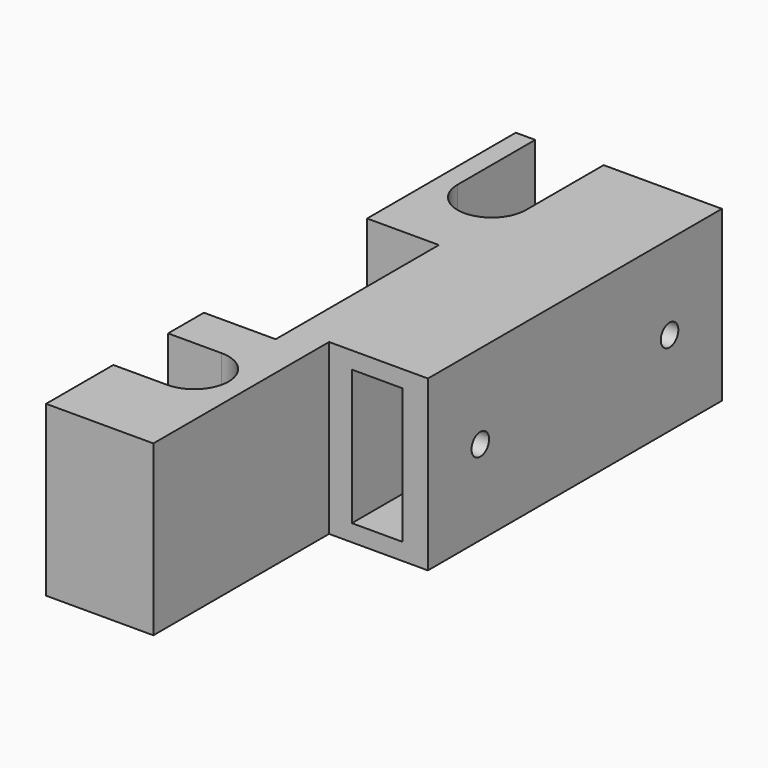
from build123d import *

# Parameters (mm, degrees)
F1_DEPTH = 20
F2_W     = 4
F2_H     = 12
F3_DEPTH = 59
F4_W     = 6
F4_H     = 2
F5_DEPTH = 39
F6_R     = 1.3
F7_DEPTH = 7.3


with BuildPart() as f1:
    # F0 (on Top) → F1 (new body)
    with BuildSketch(Plane.XY):
        with BuildLine():
            ThreePointArc((0, 4.05), (4.05, 0), (0, -4.05))
            Line((0, -4.05), (-6.35, -4.05))
            Line((-6.35, -4.05), (-6.35, -14))
            Line((-6.35, -14), (6.35, -14))
            Line((6.35, -14), (6.35, 12))
            Line((6.35, 12), (18.05, 12))
            Line((18.05, 12), (18.05, 55.5))
            Line((18.05, 55.5), (6.35, 55.5))
            Line((6.35, 55.5), (4.05, 55.5))
            Line((4.05, 55.5), (4.05, 44))
            ThreePointArc((4.05, 44), (0, 39.95), (-4.05, 44))
            Line((-4.05, 44), (-4.05, 55.5))
            Line((-4.05, 55.5), (-6.35, 55.5))
            Line((-6.35, 55.5), (-6.35, 33.5))
            Line((-6.35, 33.5), (2.15, 33.5))
            Line((2.15, 33.5), (2.15, 32.5))
            Line((2.15, 32.5), (2.15, 9.35))
            Line((2.15, 9.35), (-6.35, 9.35))
            Line((-6.35, 9.35), (-6.35, 4.05))
            Line((-6.35, 4.05), (0, 4.05))
        make_face()
    extrude(amount=F1_DEPTH)

    # F2 (on face) → F3 (cut)
    with BuildSketch(Plane(origin=(0, 55.5, 0), x_dir=(-1, 0, 0), z_dir=(0, 1, 0))):
        with Locations((-11.05, 10)):
            Rectangle(F2_W, F2_H)
    extrude(amount=-F3_DEPTH, mode=Mode.SUBTRACT)

    # F4 (on face) → F5 (cut)
    with BuildSketch(Plane.XZ.offset(-12)):
        Polygon((15.05, 16), (9.05, 16), (9.05, 10), (9.05, 4), (15.05, 4), align=None)
        with Locations((12.05, 3)):
            Rectangle(F4_W, F4_H)
        with Locations((12.05, 17)):
            Rectangle(F4_W, F4_H)
    extrude(amount=-F5_DEPTH, mode=Mode.SUBTRACT)

    # F6 (on face) → F7 (cut)
    with BuildSketch(Plane.YZ.offset(18.05)):
        with Locations((47.75, 10)):
            Circle(F6_R)
        with Locations((19.75, 10)):
            Circle(F6_R)
    extrude(amount=-F7_DEPTH, mode=Mode.SUBTRACT)


solid = f1.part
